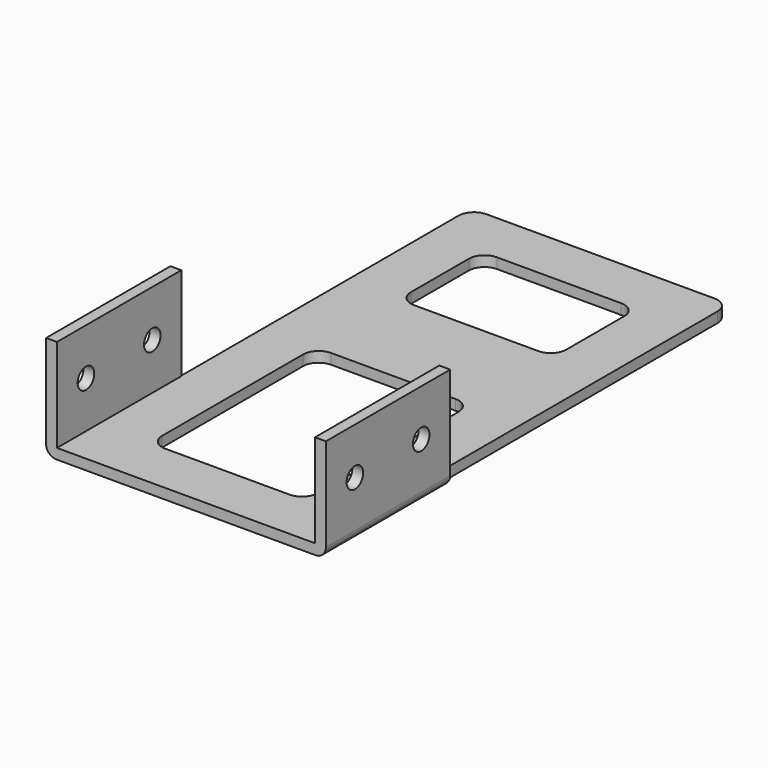
from build123d import *

# Parameters (mm, degrees)
BOX004_W          = 49.8
BOX004_H          = 30
BOX004_DEPTH      = 20
CYLINDER001_R     = 2
CYLINDER001_DEPTH = 54
CYLINDER_R        = 2
CYLINDER_DEPTH    = 54
BOX003_W          = 54
BOX003_H          = 30
BOX003_DEPTH      = 20
FILLET003_R       = 2
FILLET004_R       = 2
BOX002_W          = 30
BOX002_H          = 20
BOX002_DEPTH      = 2
FILLET002_R       = 3
BOX001_W          = 30
BOX001_H          = 40
BOX001_DEPTH      = 2
FILLET001_R       = 3
BOX_W             = 50
BOX_H             = 100
BOX_DEPTH         = 2
FILLET_R          = 3


with BuildPart() as cub004:
    # Box004 → Box004 (new body)
    with BuildSketch(Plane(origin=(2.1, 0, 0), x_dir=(1, 0, 0), z_dir=(0, 0, 1))):
        with Locations((24.9, 15)):
            Rectangle(BOX004_W, BOX004_H)
    extrude(amount=BOX004_DEPTH)


with BuildPart() as cilindre001:
    # Cylinder001 → Cylinder001 (new body)
    with BuildSketch(Plane(origin=(0, 23, 11), x_dir=(0, 0, -1), z_dir=(1, 0, 0))):
        Circle(CYLINDER001_R)
    extrude(amount=CYLINDER001_DEPTH)


with BuildPart() as cilindre:
    # Cylinder → Cylinder (new body)
    with BuildSketch(Plane(origin=(0, 7, 11), x_dir=(0, 0, -1), z_dir=(1, 0, 0))):
        Circle(CYLINDER_R)
    extrude(amount=CYLINDER_DEPTH)


with BuildPart() as fillet004:
    # Box003 → Box003 (new body)
    with BuildSketch(Plane.XY):
        with Locations((27, 15)):
            Rectangle(BOX003_W, BOX003_H)
    extrude(amount=BOX003_DEPTH)

    # Cut002: cut Cilindre
    add(cilindre.part, mode=Mode.SUBTRACT)

    # Cut003: cut Cilindre001
    add(cilindre001.part, mode=Mode.SUBTRACT)

    # Cut004: cut Cub004
    add(cub004.part, mode=Mode.SUBTRACT)

    # Fillet003
    fillet003_edges = [fillet004.edges().sort_by_distance(p)[0] for p in [
        (54, 15, 0),
    ]]
    fillet(fillet003_edges, radius=FILLET003_R)

    # Fillet004
    fillet004_edges = [fillet004.edges().sort_by_distance(p)[0] for p in [
        (0, 15, 0),
    ]]
    fillet(fillet004_edges, radius=FILLET004_R)


with BuildPart() as fillet004_1:
    # Fillet004 placement: moved
    add(fillet004.part.moved(Location((-2, 0, 0))))


with BuildPart() as fillet002:
    # Box002 → Box002 (new body)
    with BuildSketch(Plane(origin=(10, 70, 0), x_dir=(1, 0, 0), z_dir=(0, 0, 1))):
        with Locations((15, 10)):
            Rectangle(BOX002_W, BOX002_H)
    extrude(amount=BOX002_DEPTH)

    # Fillet002
    fillet002_edges = [fillet002.edges().sort_by_distance(p)[0] for p in [
        (10, 70, 1),
        (10, 90, 1),
        (40, 70, 1),
        (40, 90, 1),
    ]]
    fillet(fillet002_edges, radius=FILLET002_R)


with BuildPart() as fillet001:
    # Box001 → Box001 (new body)
    with BuildSketch(Plane(origin=(10, 10, 0), x_dir=(1, 0, 0), z_dir=(0, 0, 1))):
        with Locations((15, 20)):
            Rectangle(BOX001_W, BOX001_H)
    extrude(amount=BOX001_DEPTH)

    # Fillet001
    fillet001_edges = [fillet001.edges().sort_by_distance(p)[0] for p in [
        (10, 10, 1),
        (10, 50, 1),
        (40, 10, 1),
        (40, 50, 1),
    ]]
    fillet(fillet001_edges, radius=FILLET001_R)


with BuildPart() as fusion001:
    # Box → Box (new body)
    with BuildSketch(Plane.XY):
        with Locations((25, 50)):
            Rectangle(BOX_W, BOX_H)
    extrude(amount=BOX_DEPTH)

    # Fillet
    fillet_edges = [fusion001.edges().sort_by_distance(p)[0] for p in [
        (0, 100, 1),
        (50, 100, 1),
    ]]
    fillet(fillet_edges, radius=FILLET_R)

    # Cut: cut Fillet001
    add(fillet001.part, mode=Mode.SUBTRACT)

    # Cut001: cut Fillet002
    add(fillet002.part, mode=Mode.SUBTRACT)

    # Fusion: union Fillet004
    add(fillet004_1.part)


solid = fusion001.part
